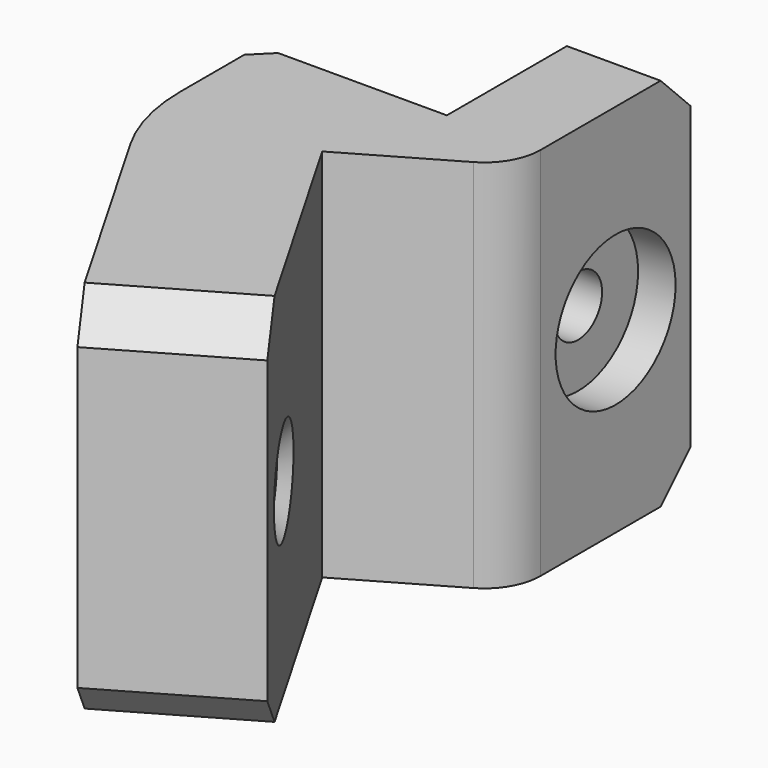
from build123d import *

# Parameters (mm, degrees)
PAD026_DEPTH      = 10
SKETCH046_R       = 1.6
POCKET018_DEPTH   = 15.001
SKETCH047_R       = 4
POCKET019_DEPTH   = 2
POCKET019_FACE6_W = 8
POCKET019_FACE6_H = 20
POCKET024_DEPTH   = 6.1
CHAMFER008_SIZE   = 2
FILLET014_R       = 10
FILLET015_R       = 3
CHAMFER009_SIZE   = 1
SKETCH048_R       = 2.1
POCKET020_DEPTH   = 15.4865555595
CHAMFER010_SIZE   = 0.6


with BuildPart() as part:
    # Sketch045 → Pad026 (new body, symmetric)
    with BuildSketch(Plane.XY):
        Polygon((40, 50), (45, 50), (45, 38.2679491924), (37.9807621135, 34.2153903092), (43.3012701892, 25), (48.6217782649, 15.7846096908), (41.6935750346, 11.7846096908), (36.3730669589, 21), (30, 32.0384757729), (30, 40), (40, 40), align=None)
    extrude(amount=PAD026_DEPTH, both=True)

    # Sketch046 (on Face5 of Pad026) → Pocket018 (cut, through all)
    with BuildSketch(Plane.YZ.offset(45)):
        with Locations((45, 0)):
            Circle(SKETCH046_R)
    extrude(amount=-POCKET018_DEPTH, mode=Mode.SUBTRACT)

    # Sketch047 (on Face9 of Pocket018) → Pocket019 (cut)
    with BuildSketch(Plane.YZ.offset(45)):
        with Locations((45, 0)):
            Circle(SKETCH047_R)
    extrude(amount=-POCKET019_DEPTH, mode=Mode.SUBTRACT)

    # Pocket019 Face6 → Pocket024 (cut)
    with BuildSketch(Plane(origin=(45.1576766498, 13.7846096908, 0), x_dir=(-0.8660254038, -0.5, 0), z_dir=(0.5, -0.8660254038, 0))):
        Rectangle(POCKET019_FACE6_W, POCKET019_FACE6_H)
    extrude(amount=-POCKET024_DEPTH, mode=Mode.SUBTRACT)

    # Chamfer008
    chamfer008_edges = [part.edges().sort_by_distance(p)[0] for p in [
        (42.5, 50, 10),
        (42.5, 50, -10),
        (42.107677, 19.067365, 10),
        (42.107677, 19.067365, -10),
    ]]
    chamfer(chamfer008_edges, length=CHAMFER008_SIZE)

    # Fillet014
    fillet014_edges = [part.edges().sort_by_distance(p)[0] for p in [
        (30, 32.038476, 0),
    ]]
    fillet(fillet014_edges, radius=FILLET014_R)

    # Fillet015
    fillet015_edges = [part.edges().sort_by_distance(p)[0] for p in [
        (45, 38.267949, 0),
    ]]
    fillet(fillet015_edges, radius=FILLET015_R)

    # Chamfer009
    chamfer009_edges = [part.edges().sort_by_distance(p)[0] for p in [
        (30, 40, 0),
    ]]
    chamfer(chamfer009_edges, length=CHAMFER009_SIZE)

    # Sketch048 (on Face13 of Chamfer009) → Pocket020 (cut, through all)
    with BuildSketch(Plane(origin=(43.3012701892, 25, 0), x_dir=(-0.5, 0.8660254038, 0), z_dir=(0.8660254038, 0.5, 0))):
        Circle(SKETCH048_R)
    extrude(amount=-POCKET020_DEPTH, mode=Mode.SUBTRACT)

    # Chamfer010
    chamfer010_edges = [part.edges().sort_by_distance(p)[0] for p in [
        (44.35127, 23.181347, 0),
        (37.423067, 19.181347, 0),
    ]]
    chamfer(chamfer010_edges, length=CHAMFER010_SIZE)


with BuildPart() as part_1:
    # Body026 placement: moved
    add(part.part.moved(Location((0, 0, 56))))


solid = part_1.part
